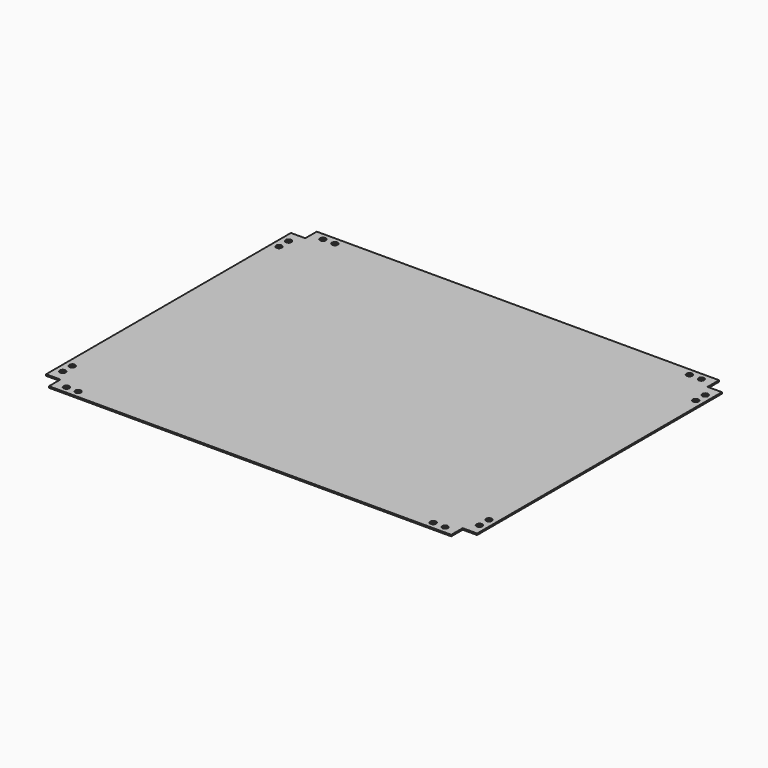
from build123d import *

# Parameters (mm, degrees)
F0_R     = 0.515571
F0_R_2   = 0.516732
F1_DEPTH = 0.254


with BuildPart() as f1:
    # F0 (on Top) → F1 (new body)
    with BuildSketch(Plane.XY):
        Polygon((2.54, 1.27), (2.54, 0), (73.66, 0), (73.66, 1.27), (73.66, 2.54), (74.93, 2.54), (76.2, 2.54), (76.2, 56.642), (74.93, 56.642), (73.66, 56.642), (73.66, 57.912), (73.66, 59.182), (2.54, 59.182), (2.54, 57.912), (2.54, 56.642), (1.27, 56.642), (0, 56.642), (0, 2.54), (1.27, 2.54), (2.54, 2.54), align=None)
        with BuildLine():
            ThreePointArc((5.119342, 1.27), (4.60881, 0.759468), (4.098278, 1.27))
            ThreePointArc((4.098278, 1.27), (4.60881, 1.780532), (5.119342, 1.27))
        make_face(mode=Mode.SUBTRACT)
        with BuildLine():
            ThreePointArc((7.180349, 1.27), (6.67762, 0.767271), (6.17489, 1.27))
            ThreePointArc((6.17489, 1.27), (6.67762, 1.772729), (7.180349, 1.27))
        make_face(mode=Mode.SUBTRACT)
        with BuildLine():
            ThreePointArc((1.774696, 4.646398), (1.626874, 4.289524), (1.27, 4.141702))
            ThreePointArc((1.27, 4.141702), (0.765304, 4.646398), (1.27, 5.151094))
            ThreePointArc((1.27, 5.151094), (1.626874, 5.003272), (1.774696, 4.646398))
        make_face(mode=Mode.SUBTRACT)
        with BuildLine():
            ThreePointArc((1.778091, 6.752796), (1.629275, 6.393521), (1.27, 6.244705))
            ThreePointArc((1.27, 6.244705), (0.910725, 7.112071), (1.778091, 6.752796))
        make_face(mode=Mode.SUBTRACT)
        with Locations((69.4436, 1.27)):
            Circle(F0_R, mode=Mode.SUBTRACT)
        with BuildLine():
            ThreePointArc((71.049353, 1.27), (71.5518, 1.772447), (72.054247, 1.27))
            ThreePointArc((72.054247, 1.27), (71.5518, 0.767553), (71.049353, 1.27))
        make_face(mode=Mode.SUBTRACT)
        with BuildLine():
            ThreePointArc((75.446638, 4.649455), (75.295318, 4.284136), (74.93, 4.132817))
            ThreePointArc((74.93, 4.132817), (74.413362, 4.649455), (74.93, 5.166093))
            ThreePointArc((74.93, 5.166093), (75.295318, 5.014773), (75.446638, 4.649455))
        make_face(mode=Mode.SUBTRACT)
        with BuildLine():
            ThreePointArc((75.434085, 6.758909), (75.286442, 6.402467), (74.93, 6.254824))
            ThreePointArc((74.93, 6.254824), (74.573558, 7.115351), (75.434085, 6.758909))
        make_face(mode=Mode.SUBTRACT)
        with BuildLine():
            ThreePointArc((1.779113, 52.423321), (0.910003, 52.063324), (1.27, 52.932433))
            ThreePointArc((1.27, 52.932433), (1.629997, 52.783318), (1.779113, 52.423321))
        make_face(mode=Mode.SUBTRACT)
        with BuildLine():
            ThreePointArc((1.27, 54.023341), (0.76068, 54.53266), (1.27, 55.04198))
            ThreePointArc((1.27, 55.04198), (1.630143, 54.892804), (1.77932, 54.53266))
            ThreePointArc((1.77932, 54.53266), (1.630143, 54.172517), (1.27, 54.023341))
        make_face(mode=Mode.SUBTRACT)
        with BuildLine():
            ThreePointArc((5.154588, 57.912), (4.643598, 57.401009), (4.132607, 57.912))
            ThreePointArc((4.132607, 57.912), (4.643598, 58.422991), (5.154588, 57.912))
        make_face(mode=Mode.SUBTRACT)
        with BuildLine():
            ThreePointArc((7.257511, 57.912), (6.747195, 57.401684), (6.236879, 57.912))
            ThreePointArc((6.236879, 57.912), (6.747195, 58.422316), (7.257511, 57.912))
        make_face(mode=Mode.SUBTRACT)
        with BuildLine():
            ThreePointArc((75.433384, 52.431013), (74.574054, 52.075067), (74.93, 52.934398))
            ThreePointArc((74.93, 52.934398), (75.285946, 52.78696), (75.433384, 52.431013))
        make_face(mode=Mode.SUBTRACT)
        with BuildLine():
            ThreePointArc((74.93, 54.015517), (74.409011, 54.536507), (74.93, 55.057496))
            ThreePointArc((74.93, 55.057496), (75.298395, 54.904902), (75.450989, 54.536507))
            ThreePointArc((75.450989, 54.536507), (75.298395, 54.168112), (74.93, 54.015517))
        make_face(mode=Mode.SUBTRACT)
        with Locations((69.4436, 57.912)):
            Circle(F0_R_2, mode=Mode.SUBTRACT)
        with BuildLine():
            ThreePointArc((71.049026, 57.912), (71.5518, 58.414774), (72.054574, 57.912))
            ThreePointArc((72.054574, 57.912), (71.5518, 57.409226), (71.049026, 57.912))
        make_face(mode=Mode.SUBTRACT)
    extrude(amount=F1_DEPTH)


solid = f1.part
